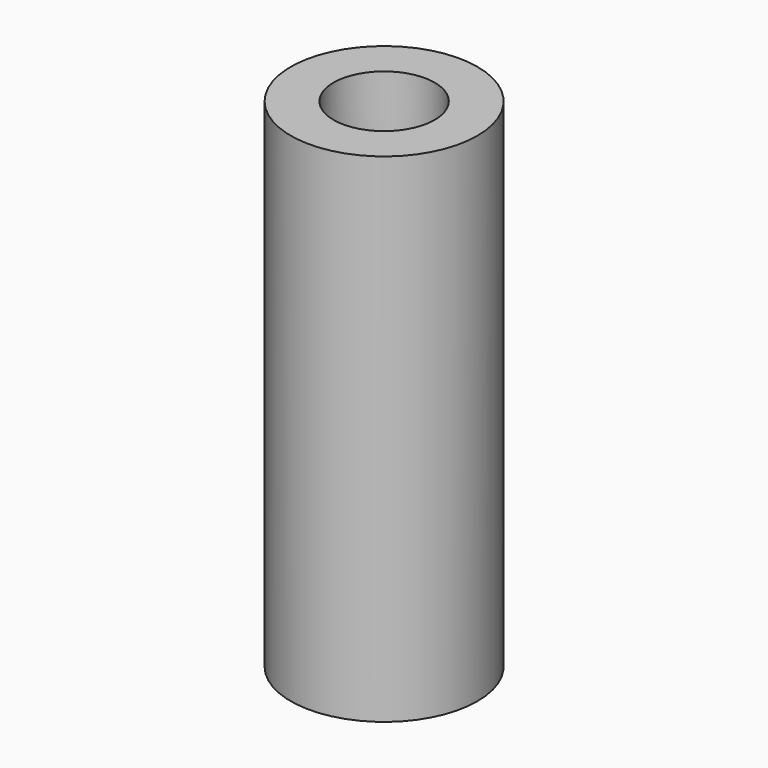
from build123d import *

# Parameters (mm, degrees)
F1_R     = 9.525
F2_DEPTH = 50.8
F5_D     = 4.2
F6_D     = 10.31748
F6_DEPTH = 6.35
F6_TIP   = 3.0996837098
F8_D     = 10.31748
F8_DEPTH = 6.35
F8_TIP   = 3.0996837098


with BuildPart() as f2:
    # F1 (on Top) → F2 (new body, through all)
    with BuildSketch(Plane.XY):
        Circle(F1_R)
    extrude(amount=-F2_DEPTH)

    # F5 (through all)
    with Locations(Plane.XY):
        with Locations((0, 0)):
            Hole(F5_D / 2)

    # F6
    with Locations(Plane(origin=(0, 0, -50.8), x_dir=(1, 0, 0), z_dir=(0, 0, -1))):
        with Locations((0, 0)):
            Hole(F6_D / 2, depth=F6_DEPTH)
            with Locations((0, 0, -(F6_DEPTH + F6_TIP / 2))):  # 118° drill point
                Cone(0, F6_D / 2, F6_TIP, mode=Mode.SUBTRACT)

    # F8
    with Locations(Plane.XY):
        with Locations((0, 0)):
            Hole(F8_D / 2, depth=F8_DEPTH)
            with Locations((0, 0, -(F8_DEPTH + F8_TIP / 2))):  # 118° drill point
                Cone(0, F8_D / 2, F8_TIP, mode=Mode.SUBTRACT)


solid = f2.part
